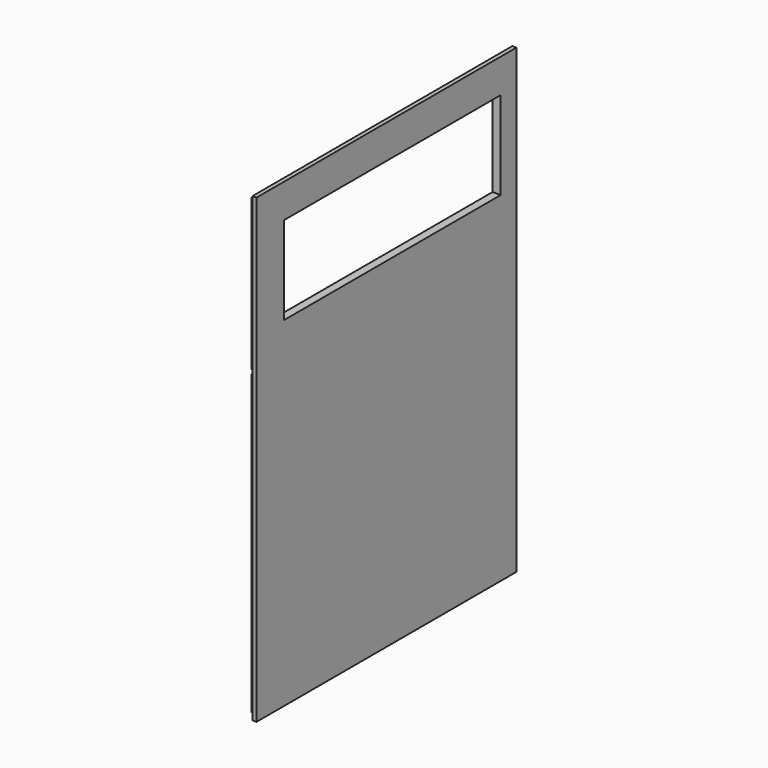
from build123d import *

# Parameters (mm, degrees)
F0_W      = 480
F0_H      = 682
F1_DEPTH  = 12
F2_W      = 6
F2_H      = 682
F3_DEPTH  = 6
F4_W      = 474
F4_H      = 6
F5_DEPTH  = 6
F6_W      = 6
F6_H      = 66
F7_DEPTH  = 6
F8_W      = 474
F8_H      = 6
F9_DEPTH  = 6
F10_W     = 400
F10_H     = 130
F11_DEPTH = 12
F12_W     = 474
F12_H     = 6
F13_DEPTH = 6


with BuildPart() as f1:
    # F0 (on Right) → F1 (new body)
    with BuildSketch(Plane.YZ):
        Rectangle(F0_W, F0_H)
    extrude(amount=F1_DEPTH)

    # F2 (on face) → F3 (cut)
    with BuildSketch(Plane(origin=(0, 0, 0), x_dir=(0, -1, 0), z_dir=(-1, 0, 0))):
        with Locations((237, 0)):
            Rectangle(F2_W, F2_H)
    extrude(amount=-F3_DEPTH, mode=Mode.SUBTRACT)

    # F4 (on face) → F5 (cut)
    with BuildSketch(Plane(origin=(0, 0, 0), x_dir=(0, -1, 0), z_dir=(-1, 0, 0))):
        with Locations((-3, -338)):
            Rectangle(F4_W, F4_H)
    extrude(amount=-F5_DEPTH, mode=Mode.SUBTRACT)

    # F6 (on face) → F7 (cut)
    with BuildSketch(Plane(origin=(0, 0, 0), x_dir=(0, -1, 0), z_dir=(-1, 0, 0))):
        with Locations((-237, -302)):
            Rectangle(F6_W, F6_H)
    extrude(amount=-F7_DEPTH, mode=Mode.SUBTRACT)

    # F8 (on face) → F9 (cut)
    with BuildSketch(Plane(origin=(0, 0, 0), x_dir=(0, -1, 0), z_dir=(-1, 0, 0))):
        with Locations((-3, 108)):
            Rectangle(F8_W, F8_H)
    extrude(amount=-F9_DEPTH, mode=Mode.SUBTRACT)

    # F10 (on face) → F11 (cut, through all)
    with BuildSketch(Plane(origin=(0, 0, 0), x_dir=(0, -1, 0), z_dir=(-1, 0, 0))):
        with Locations((-11, 226)):
            Rectangle(F10_W, F10_H)
    extrude(amount=-F11_DEPTH, mode=Mode.SUBTRACT)

    # F12 (on face) → F13 (cut)
    with BuildSketch(Plane(origin=(0, 0, 0), x_dir=(0, -1, 0), z_dir=(-1, 0, 0))):
        with Locations((-3, 338)):
            Rectangle(F12_W, F12_H)
    extrude(amount=-F13_DEPTH, mode=Mode.SUBTRACT)


solid = f1.part
